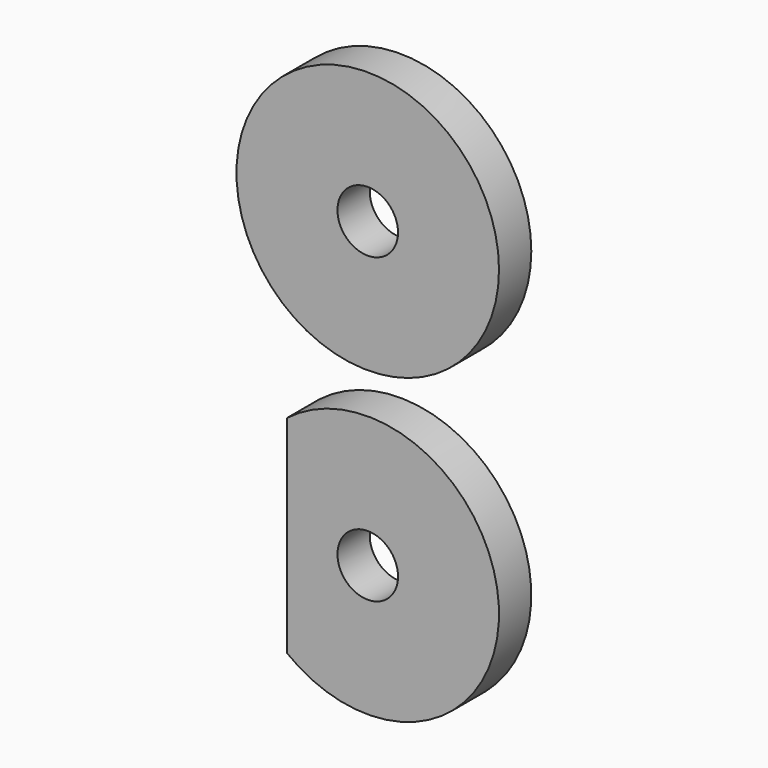
from build123d import *

# Parameters (mm, degrees)
F0_R     = 6.5
F0_R_2   = 1.5
F1_DEPTH = 2


with BuildPart() as f1:
    # F0 (on Front) → F1 (new body)
    with BuildSketch(Plane.XZ):
        with Locations((-45.970005, 46.853024)):
            Circle(F0_R)
        with Locations((-45.970005, 46.853024)):
            Circle(F0_R_2, mode=Mode.SUBTRACT)
        with BuildLine():
            Line((-49.970005, 36.976499), (-49.970005, 26.729549))
            ThreePointArc((-49.970005, 26.729549), (-39.470005, 31.853024), (-49.970005, 36.976499))
        make_face()
        with Locations((-45.970005, 31.853024)):
            Circle(F0_R_2, mode=Mode.SUBTRACT)
    extrude(amount=F1_DEPTH)


solid = f1.part
